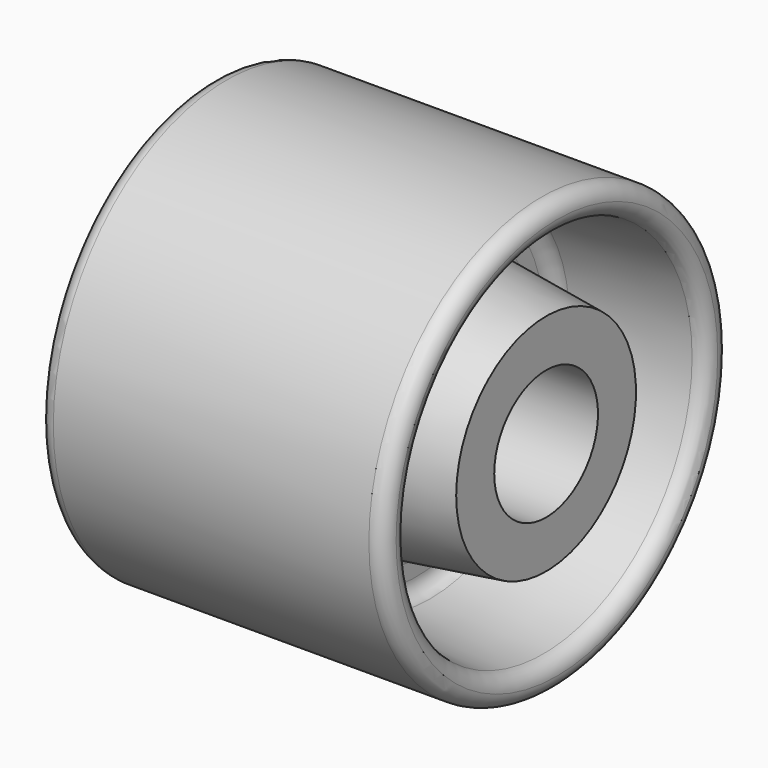
from build123d import *


with BuildPart() as f1:
    # F0 (on Top) → F1 (revolve)
    with BuildSketch(Plane.XY):
        with BuildLine():
            Line((37.5, -15), (0, -15))
            Line((0, -15), (0, -50))
            Line((0, -50), (36.5, -50))
            ThreePointArc((36.5, -50), (33.004591, -46.320787), (36.857955, -43.018353))
            Line((36.857955, -43.018353), (10.642045, -40.32304))
            ThreePointArc((10.642045, -40.32304), (8.40165, -39.186298), (7.5, -36.841393))
            Line((7.5, -36.841393), (7.5, -33.064307))
            ThreePointArc((7.5, -33.064307), (8.366656, -30.758771), (10.537427, -29.59501))
            Line((10.537427, -29.59501), (37.5, -26))
            Line((37.5, -26), (37.5, -15))
        make_face()
        with BuildLine():
            Line((0, -50), (0, -15))
            Line((0, -15), (-37.5, -15))
            Line((-37.5, -15), (-37.5, -26))
            Line((-37.5, -26), (-10.537427, -29.59501))
            ThreePointArc((-10.537427, -29.59501), (-8.366656, -30.758771), (-7.5, -33.064307))
            Line((-7.5, -33.064307), (-7.5, -36.841393))
            ThreePointArc((-7.5, -36.841393), (-8.40165, -39.186298), (-10.642045, -40.32304))
            Line((-10.642045, -40.32304), (-36.857955, -43.018353))
            ThreePointArc((-36.857955, -43.018353), (-34.155095, -43.90165), (-33, -46.5))
            ThreePointArc((-33, -46.5), (-34.025126, -48.974874), (-36.5, -50))
            Line((-36.5, -50), (0, -50))
        make_face()
        with BuildLine():
            ThreePointArc((36.857955, -43.018353), (33.004591, -46.320787), (36.5, -50))
            ThreePointArc((36.5, -50), (38.974874, -48.974874), (40, -46.5))
            ThreePointArc((40, -46.5), (39.09835, -44.155095), (36.857955, -43.018353))
        make_face()
        with BuildLine():
            ThreePointArc((-36.857955, -43.018353), (-39.995409, -46.679213), (-36.5, -50))
            ThreePointArc((-36.5, -50), (-34.025126, -48.974874), (-33, -46.5))
            ThreePointArc((-33, -46.5), (-34.155095, -43.90165), (-36.857955, -43.018353))
        make_face()
    revolve(axis=Axis((13.568111, 0, 0), (1, 0, 0)))


solid = f1.part
